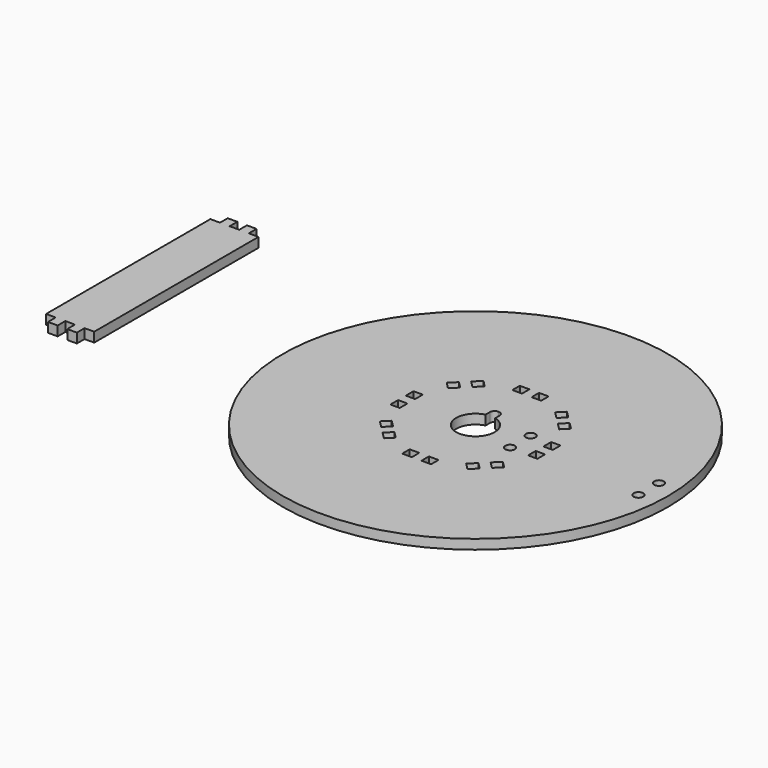
from build123d import *

# Parameters (mm, degrees)
F2_DEPTH = 3
F0_R     = 60
F0_W     = 3
F0_H     = 2.9
F0_W_2   = 2.9
F0_H_2   = 3
F0_R_2   = 1.5
F0_R_3   = 20
F3_DEPTH = 3


with BuildPart() as f2:
    # F1 (on Top) → F2 (new body)
    with BuildSketch(Plane.XY):
        Polygon((-112.157464, 47.439776), (-115.157464, 47.439776), (-115.157464, 44.439776), (-118.157464, 44.439776), (-118.157464, -19.560224), (-115.157464, -19.560224), (-115.157464, -22.560224), (-112.157464, -22.560224), (-112.157464, -19.560224), (-109.157464, -19.560224), (-109.157464, -22.560224), (-106.157464, -22.560224), (-106.157464, -19.560224), (-103.157464, -19.560224), (-103.157464, 44.439776), (-106.157464, 44.439776), (-106.157464, 47.439776), (-109.157464, 47.439776), (-109.157464, 44.439776), (-112.157464, 44.439776), align=None)
    extrude(amount=F2_DEPTH)


with BuildPart() as f3:
    # F0 (on Top) → F3 (new body)
    with BuildSketch(Plane.XY):
        Circle(F0_R)
        Polygon((-13.010765, -19.374726), (-15.132085, -17.253405), (-13.081475, -15.202796), (-10.960155, -17.324116), align=None, mode=Mode.SUBTRACT)
        with Locations((-3, -21.45)):
            Rectangle(F0_W, F0_H, mode=Mode.SUBTRACT)
        with Locations((3, -21.45)):
            Rectangle(F0_W, F0_H, mode=Mode.SUBTRACT)
        Polygon((10.960155, -17.324116), (13.081475, -15.202796), (15.132085, -17.253405), (13.010765, -19.374726), align=None, mode=Mode.SUBTRACT)
        Polygon((-17.253405, -15.132085), (-19.374726, -13.010765), (-17.324116, -10.960155), (-15.202796, -13.081475), align=None, mode=Mode.SUBTRACT)
        with Locations((-21.45, -3)):
            Rectangle(F0_W_2, F0_H_2, mode=Mode.SUBTRACT)
        Polygon((15.202796, -13.081475), (17.324116, -10.960155), (19.374726, -13.010765), (17.253405, -15.132085), align=None, mode=Mode.SUBTRACT)
        with Locations((21.45, -3)):
            Rectangle(F0_W_2, F0_H_2, mode=Mode.SUBTRACT)
        with Locations((54, -4)):
            Circle(F0_R_2, mode=Mode.SUBTRACT)
        with Locations((-21.45, 3)):
            Rectangle(F0_W_2, F0_H_2, mode=Mode.SUBTRACT)
        Circle(F0_R_3, mode=Mode.SUBTRACT)
        Polygon((-19.374726, 13.010765), (-17.253405, 15.132085), (-15.202796, 13.081475), (-17.324116, 10.960155), align=None, mode=Mode.SUBTRACT)
        with Locations((21.45, 3)):
            Rectangle(F0_W_2, F0_H_2, mode=Mode.SUBTRACT)
        with Locations((54, 4)):
            Circle(F0_R_2, mode=Mode.SUBTRACT)
        Polygon((17.324116, 10.960155), (15.202796, 13.081475), (17.253405, 15.132085), (19.374726, 13.010765), align=None, mode=Mode.SUBTRACT)
        Polygon((-15.132085, 17.253405), (-13.010765, 19.374726), (-10.960155, 17.324116), (-13.081475, 15.202796), align=None, mode=Mode.SUBTRACT)
        Polygon((13.081475, 15.202796), (10.960155, 17.324116), (13.010765, 19.374726), (15.132085, 17.253405), align=None, mode=Mode.SUBTRACT)
        with Locations((-3, 21.45)):
            Rectangle(F0_W, F0_H, mode=Mode.SUBTRACT)
        with Locations((3, 21.45)):
            Rectangle(F0_W, F0_H, mode=Mode.SUBTRACT)
        Circle(F0_R_3)
        with Locations((14, -4)):
            Circle(F0_R_2, mode=Mode.SUBTRACT)
        with BuildLine():
            ThreePointArc((1.5, 5.809475), (0, -6), (-1.5, 5.809475))
            Line((-1.5, 5.809475), (-1.5, 7.5))
            ThreePointArc((-1.5, 7.5), (-1.06066, 8.56066), (0, 9))
            ThreePointArc((0, 9), (1.06066, 8.56066), (1.5, 7.5))
            Line((1.5, 7.5), (1.5, 5.809475))
        make_face(mode=Mode.SUBTRACT)
        with Locations((14, 4)):
            Circle(F0_R_2, mode=Mode.SUBTRACT)
    extrude(amount=F3_DEPTH)


solid = Compound([f2.part, f3.part])
